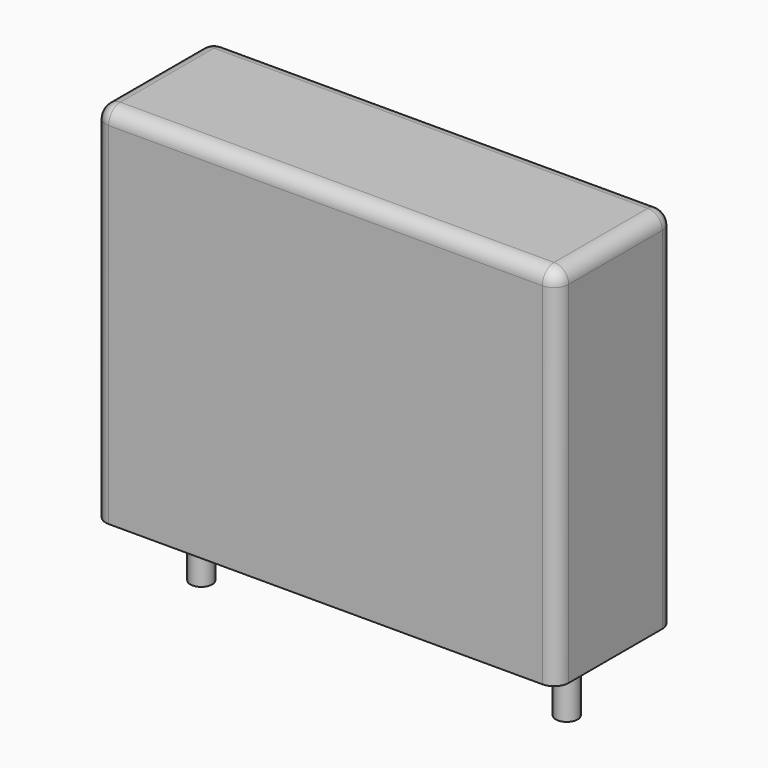
from build123d import *

# Parameters (mm, degrees)
SKETCH_W     = 19
SKETCH_H     = 6
PAD_DEPTH    = 15
FILLET_R     = 0.6
SKETCH001_R  = 0.45
PAD001_DEPTH = 3.2


with BuildPart() as fillet_body:
    # Sketch → Pad (new body)
    with BuildSketch(Plane.XY.offset(0.1)):
        with Locations((7.5, 0)):
            Rectangle(SKETCH_W, SKETCH_H)
    extrude(amount=PAD_DEPTH)

    # Fillet
    fillet_edges = [fillet_body.edges().sort_by_distance(p)[0] for p in [
        (-2, 0, 15.1),
        (-2, -3, 7.6),
        (7.5, -3, 15.1),
        (17, -3, 7.6),
        (17, 0, 15.1),
        (17, 3, 7.6),
        (7.5, 3, 15.1),
        (-2, 3, 7.6),
    ]]
    fillet(fillet_edges, radius=FILLET_R)


with BuildPart() as pad001:
    # Sketch001 → Pad001 (new body)
    with BuildSketch(Plane.XY.offset(0.5)):
        Circle(SKETCH001_R)
        with Locations((15, 0)):
            Circle(SKETCH001_R)
    extrude(amount=-PAD001_DEPTH)


solid = Compound([fillet_body.part, pad001.part])
